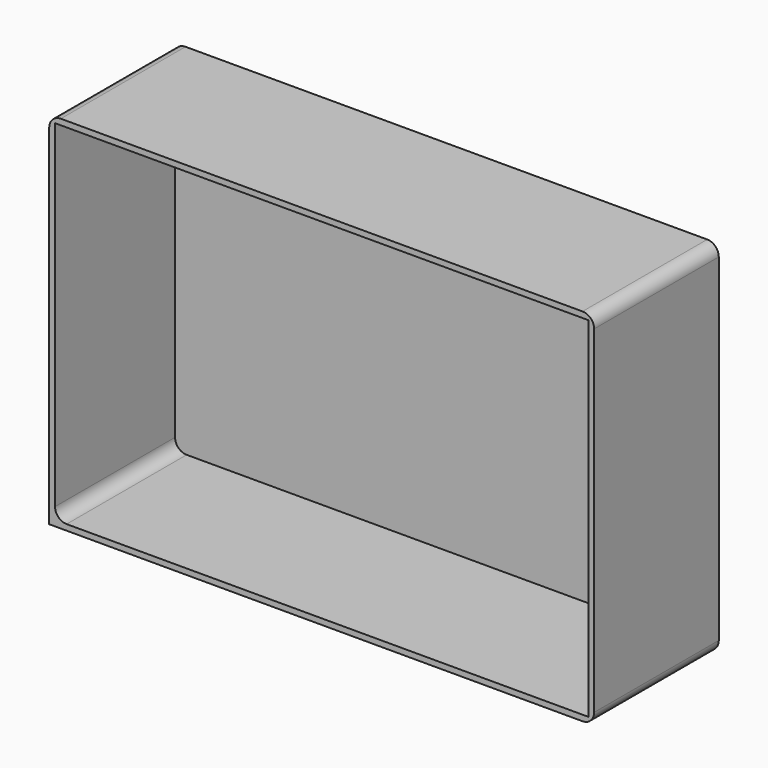
from build123d import *

# Parameters (mm, degrees)
F0_W     = 238.8686686754
F0_H     = 158.1714600325
F1_DEPTH = 68.326
F2_T     = -2.54
F3_R     = 5.08


with BuildPart() as f1:
    # F0 (on Front) → F1 (new body)
    with BuildSketch(Plane.XZ):
        Rectangle(F0_W, F0_H)
    extrude(amount=F1_DEPTH)

    # F2
    f2_openings = [f1.faces().sort_by_distance(p)[0] for p in [
        (0, -68.326, 0),
    ]]
    offset(amount=F2_T, openings=f2_openings)

    # F3
    f3_edges = [f1.edges().sort_by_distance(p)[0] for p in [
        (-119.434334, -34.163, 79.08573),
        (119.434334, -34.163, 79.08573),
        (119.434334, -34.163, -79.08573),
        (-116.894334, -35.433, -76.54573),
    ]]
    fillet(f3_edges, radius=F3_R)


solid = f1.part
